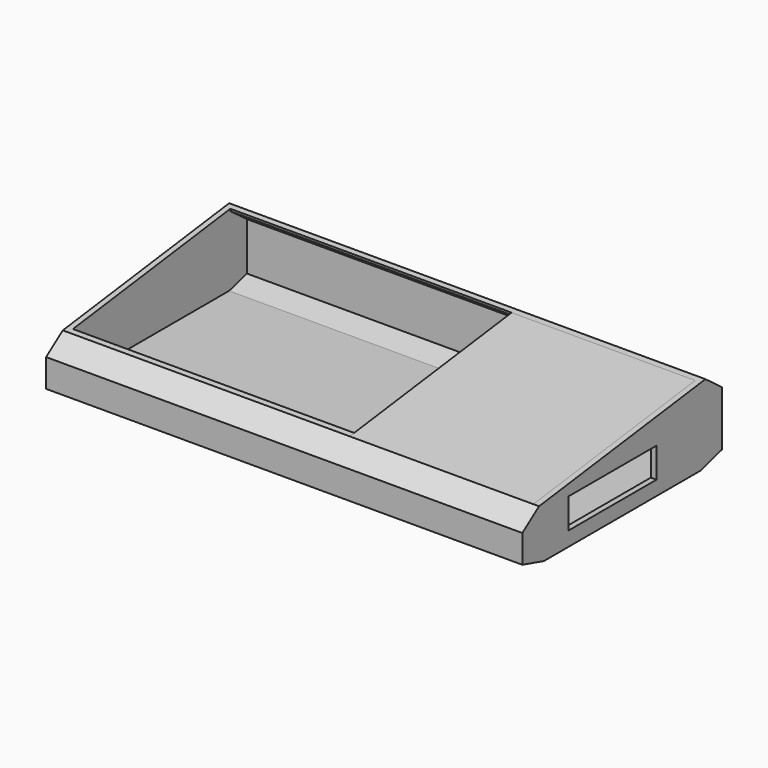
from build123d import *

# Parameters (mm, degrees)
PAD_DEPTH       = 420
THICKNESS_T     = -5
SKETCH001_W     = 175
SKETCH001_H     = 410
POCKET_DEPTH    = 13
SKETCH002_W     = 96.930253
SKETCH002_H     = 26.478514
POCKET001_DEPTH = 8
SKETCH003_W     = 162
SKETCH003_H     = 2.108998
PAD001_DEPTH    = 180


with BuildPart() as part:
    # Sketch → Pad (new body)
    with BuildSketch(Plane.YZ):
        Polygon((-196.253947, 0), (-23.746053, 0), (0, 6.755281), (0, 55.271607), (-18.174265, 68.847916), (-201.591564, 44.70057), (-220, 31.443514), (-220, 6.755281), align=None)
    extrude(amount=PAD_DEPTH)

    # Thickness
    thickness_openings = [part.faces().sort_by_distance(p)[0] for p in [
        (210, -109.882914, 56.774243),
    ]]
    offset(amount=THICKNESS_T, openings=thickness_openings, kind=Kind.INTERSECTION)

    # Sketch001 (on Face5 of Pad) → Pocket (cut)
    with BuildSketch(Plane(origin=(0, -9.219212, 70.026871), x_dir=(0, -0.991445, -0.130526), z_dir=(0, -0.130526, 0.991445))):
        with Locations((101.532325, 210)):
            Rectangle(SKETCH001_W, SKETCH001_H)
    extrude(amount=-POCKET_DEPTH, mode=Mode.SUBTRACT)

    # Sketch002 (on Face5 of Pocket) → Pocket001 (cut)
    with BuildSketch(Plane.YZ.offset(420)):
        with Locations((-120.639269, 25.939101)):
            Rectangle(SKETCH002_W, SKETCH002_H)
    extrude(amount=-POCKET001_DEPTH, mode=Mode.SUBTRACT)

    # Sketch003 (on Face13 of Pocket001) → Pad001 (join)
    with BuildSketch(Plane(origin=(0, -13.912277, -1.831586), x_dir=(1, 0, 0), z_dir=(0, -0.991445, -0.130526))):
        with Locations((334, 69.576631)):
            Rectangle(SKETCH003_W, SKETCH003_H)
    extrude(amount=PAD001_DEPTH)


solid = part.part
